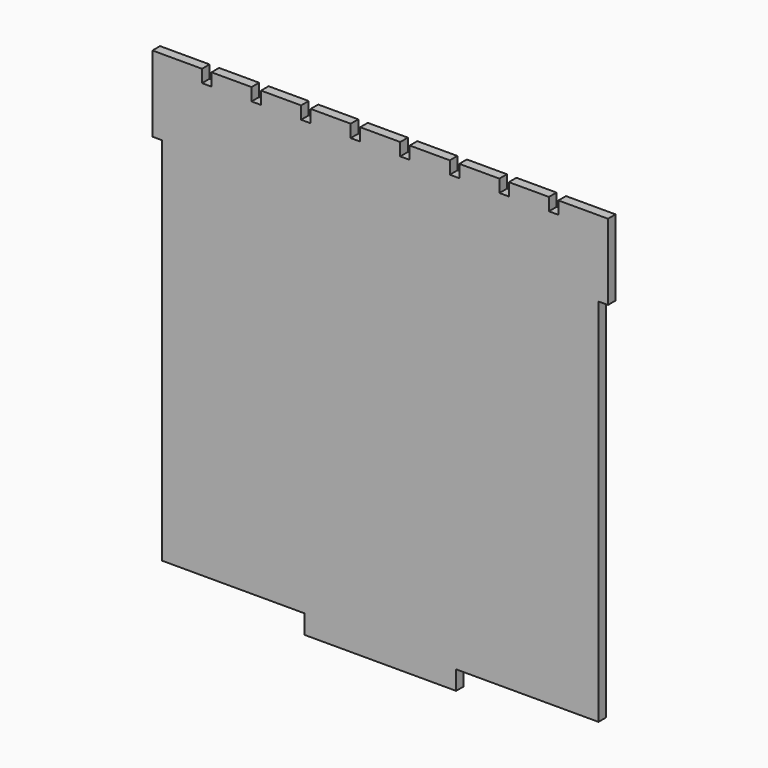
from build123d import *

# Parameters (mm, degrees)
F0_W     = 19.05
F0_H     = 152.4
F0_W_2   = 304.8
F0_H_2   = 38.1
F1_DEPTH = 19.05


with BuildPart() as f1:
    # F0 (on Front) → F1 (new body)
    with BuildSketch(Plane.XZ):
        Polygon((-357.716667, 447.675), (-438.15, 447.675), (-438.15, 295.275), (-438.15, -447.675), (-152.4, -447.675), (152.4, -447.675), (438.15, -447.675), (438.15, 295.275), (438.15, 447.675), (357.716667, 447.675), (357.716667, 422.275), (338.666667, 422.275), (338.666667, 447.675), (258.233333, 447.675), (258.233333, 422.275), (239.183333, 422.275), (239.183333, 447.675), (158.75, 447.675), (158.75, 422.275), (139.7, 422.275), (139.7, 447.675), (59.266667, 447.675), (59.266667, 422.275), (40.216667, 422.275), (40.216667, 447.675), (-40.216667, 447.675), (-40.216667, 422.275), (-59.266667, 422.275), (-59.266667, 447.675), (-139.7, 447.675), (-139.7, 422.275), (-158.75, 422.275), (-158.75, 447.675), (-239.183333, 447.675), (-239.183333, 422.275), (-258.233333, 422.275), (-258.233333, 447.675), (-338.666667, 447.675), (-338.666667, 422.275), (-357.716667, 422.275), align=None)
        with Locations((-447.675, 371.475)):
            Rectangle(F0_W, F0_H)
        with Locations((0, -466.725)):
            Rectangle(F0_W_2, F0_H_2)
        with Locations((0, -466.725)):
            Rectangle(F0_W_2, F0_H_2)
        with Locations((447.675, 371.475)):
            Rectangle(F0_W, F0_H)
    extrude(amount=F1_DEPTH)


solid = f1.part
